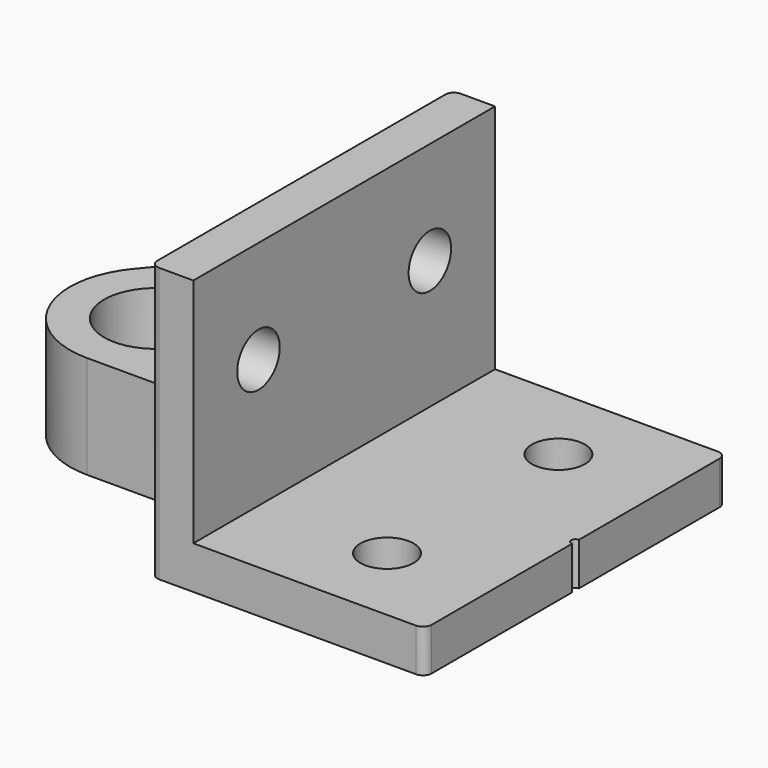
from build123d import *

# Parameters (mm, degrees)
PAD_DEPTH            = 22
SKETCH001_R          = 3.1
SKETCH001_R_2        = 0.5
POCKET_DEPTH         = 5.001
POCKET_DEPTH_BACK    = -27.001
SKETCH002_R          = 3.1
POCKET001_DEPTH      = 5
SKETCH003_R          = 1.6
POCKET002_DEPTH      = 22.001
POCKET002_DEPTH_BACK = -22.001
SKETCH004_R          = 3
POCKET003_DEPTH      = 5
POCKET004_DEPTH      = 2.3
FILLET_R             = 1


with BuildPart() as part:
    # Sketch → Pad (new body, symmetric)
    with BuildSketch(Plane.XZ):
        Polygon((0, 27), (0, 0), (27, 0), (27, -5), (-32, -5), (-32, 7), (-5, 7), (-5, 27), align=None)
    extrude(amount=PAD_DEPTH, both=True)

    # Sketch001 → Pocket (cut, two sides)
    with BuildSketch(Plane.XY) as pocket_sk:
        with Locations((15, 12.5)):
            Circle(SKETCH001_R)
        with Locations((15, -12.5)):
            Circle(SKETCH001_R)
        with Locations((27, 0)):
            Circle(SKETCH001_R_2)
        with BuildLine():
            ThreePointArc((-16.803848, -3), (-26.859933, 3.518672), (-17.527864, -4))
            Line((-6, -4), (-17.527864, -4))
            Line((-6, -4), (-6, -10))
            Line((-6, -10), (-22, -10))
            ThreePointArc((-29.660444, 6.427876), (-31.063078, -4.226183), (-22, -10))
            Line((-18.392302, 19.856726), (-29.660444, 6.427876))
            ThreePointArc((-13.796055, 22), (-16.331753, 21.437843), (-18.392302, 19.856726))
            Line((-13.796055, 22), (-13.796055, 28.799225))
            Line((-13.796055, 28.799225), (-40.339119, 28.799225))
            Line((-40.339119, 28.799225), (-40.339119, -28.958258))
            Line((-40.339119, -28.958258), (-5, -28.958258))
            Line((-5, -28.958258), (-5, -3))
            Line((-16.803848, -3), (-5, -3))
        make_face()
    extrude(amount=-POCKET_DEPTH, mode=Mode.SUBTRACT)
    extrude(pocket_sk.sketch, amount=-POCKET_DEPTH_BACK, mode=Mode.SUBTRACT)

    # Sketch002 → Pocket001 (cut)
    with BuildSketch(Plane.YZ):
        with Locations((-12.5, 15)):
            Circle(SKETCH002_R)
        with Locations((12.5, 15)):
            Circle(SKETCH002_R)
    extrude(amount=-POCKET001_DEPTH, mode=Mode.SUBTRACT)

    # Sketch003 → Pocket002 (cut, two sides)
    with BuildSketch(Plane.XZ) as pocket002_sk:
        with Locations((-11, 1)):
            Circle(SKETCH003_R)
    extrude(amount=-POCKET002_DEPTH, mode=Mode.SUBTRACT)
    extrude(pocket002_sk.sketch, amount=-POCKET002_DEPTH_BACK, mode=Mode.SUBTRACT)

    # Sketch004 (on Face5 of Pocket002) → Pocket003 (cut)
    with BuildSketch(Plane(origin=(0, 22, 0), x_dir=(1, 0, 0), z_dir=(0, 1, 0))):
        with Locations((-11, -1)):
            Circle(SKETCH004_R)
    extrude(amount=-POCKET003_DEPTH, mode=Mode.SUBTRACT)

    # Sketch005 (on Face11 of Pocket003) → Pocket004 (cut)
    with BuildSketch(Plane.XZ.offset(10)):
        Polygon((-8.25, -0.587713), (-8.25, 2.587713), (-11, 4.175426), (-13.75, 2.587713), (-13.75, -0.587713), (-11, -2.175426), align=None)
    extrude(amount=-POCKET004_DEPTH, mode=Mode.SUBTRACT)

    # Fillet
    fillet_edges = [part.edges().sort_by_distance(p)[0] for p in [
        (27, -22, -2.5),
        (27, 22, -2.5),
        (-5, -22, 11),
        (-5, 22, 17),
    ]]
    fillet(fillet_edges, radius=FILLET_R)


solid = part.part
